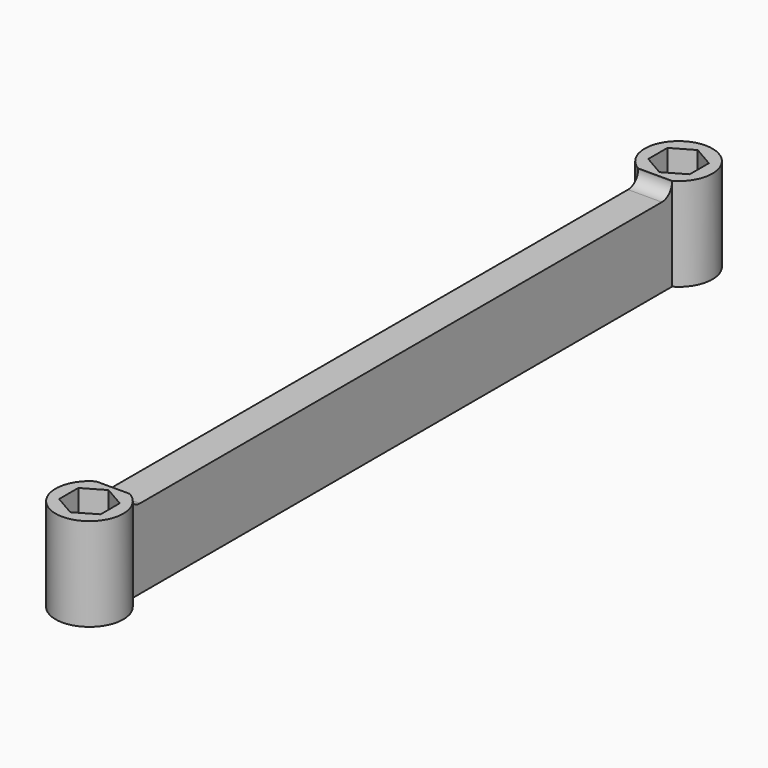
from build123d import *

# Parameters (mm, degrees)
PAD_DEPTH       = 11
POCKET_DEPTH    = 11.001
SKETCH002_W     = 80.071796
SKETCH002_H     = 1.6
POCKET001_DEPTH = 6.001
FILLET_R        = 1.5
FILLET001_R     = 1.5


with BuildPart() as part:
    # Sketch → Pad (new body)
    with BuildSketch(Plane.XY):
        with BuildLine():
            ThreePointArc((-2, 3.464102), (0, -4), (2, 3.464102))
            Line((2, 83.535898), (2, 3.464102))
            ThreePointArc((2, 83.535898), (0, 91), (-2, 83.535898))
            Line((-2, 83.535898), (-2, 3.464102))
        make_face()
    extrude(amount=PAD_DEPTH)

    # Sketch001 (on Face6 of Pad) → Pocket (cut, through all)
    with BuildSketch(Plane.XY.offset(11)):
        Polygon((2.45, 85.585492), (2.45, 88.414508), (0, 89.829016), (-2.45, 88.414508), (-2.45, 85.585492), (0, 84.170984), align=None)
        Polygon((2.45, -1.414508), (2.45, 1.414508), (0, 2.829016), (-2.45, 1.414508), (-2.45, -1.414508), (0, -2.829016), align=None)
    extrude(amount=-POCKET_DEPTH, mode=Mode.SUBTRACT)

    # Sketch002 (on Face2 of Pocket) → Pocket001 (cut, through all)
    with BuildSketch(Plane.YZ.offset(2)):
        with Locations((43.5, 10.2)):
            Rectangle(SKETCH002_W, SKETCH002_H)
    extrude(amount=-POCKET001_DEPTH, mode=Mode.SUBTRACT)

    # Fillet
    fillet_edges = [part.edges().sort_by_distance(p)[0] for p in [
        (0, 83.535898, 9.4),
    ]]
    fillet(fillet_edges, radius=FILLET_R)

    # Fillet001
    fillet001_edges = [part.edges().sort_by_distance(p)[0] for p in [
        (0, 3.464102, 9.4),
    ]]
    fillet(fillet001_edges, radius=FILLET001_R)


solid = part.part
